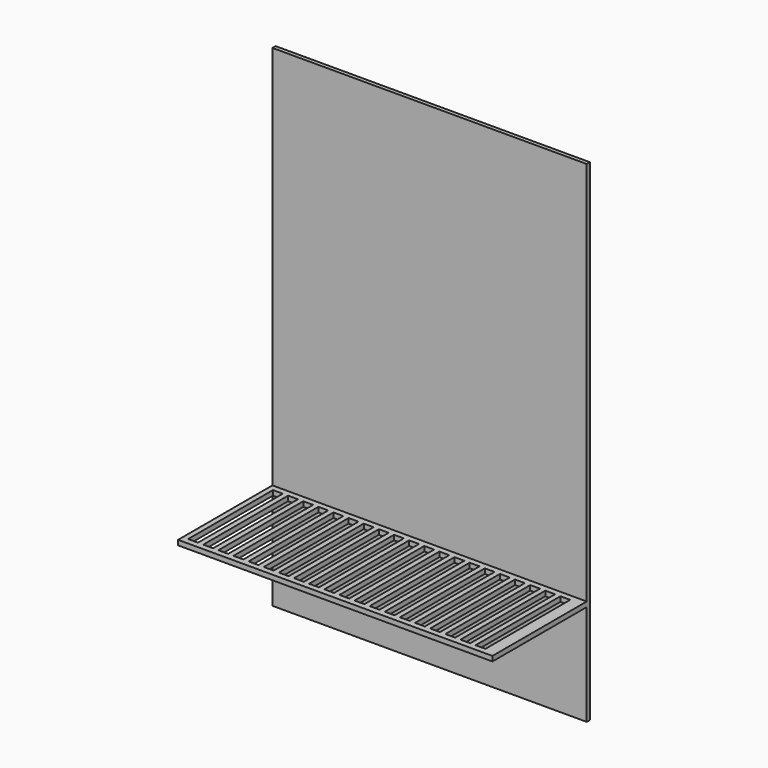
from build123d import *

# Parameters (mm, degrees)
F0_W     = 1600
F0_H     = 2500
F1_DEPTH = 20
F2_W     = 1600
F2_H     = 25
F3_DEPTH = 600
F4_W     = 50
F4_H     = 540
F5_DEPTH = 216


with BuildPart() as f1:
    # F0 (on Front) → F1 (new body)
    with BuildSketch(Plane.XZ):
        with Locations((-16.960647, 710.356686)):
            Rectangle(F0_W, F0_H)
    extrude(amount=F1_DEPTH)

    # F2 (on face) → F3 (join)
    with BuildSketch(Plane.XZ.offset(20)):
        with Locations((-16.960647, -12.5)):
            Rectangle(F2_W, F2_H)
    extrude(amount=F3_DEPTH)

    # F4 (on face) → F5 (cut)
    with BuildSketch(Plane.XY):
        with Locations((-533.960647, -320)):
            Rectangle(F4_W, F4_H)
        with Locations((-610.960647, -320)):
            Rectangle(F4_W, F4_H)
        with Locations((-687.960647, -320)):
            Rectangle(F4_W, F4_H)
        with Locations((-764.960647, -320)):
            Rectangle(F4_W, F4_H)
        with Locations((-456.960647, -320)):
            Rectangle(F4_W, F4_H)
        with Locations((-302.960647, -320)):
            Rectangle(F4_W, F4_H)
        with Locations((-379.960647, -320)):
            Rectangle(F4_W, F4_H)
        with Locations((698.039353, -320)):
            Rectangle(F4_W, F4_H)
        with Locations((621.039353, -320)):
            Rectangle(F4_W, F4_H)
        with Locations((544.039353, -320)):
            Rectangle(F4_W, F4_H)
        with Locations((467.039353, -320)):
            Rectangle(F4_W, F4_H)
        with Locations((390.039353, -320)):
            Rectangle(F4_W, F4_H)
        with Locations((313.039353, -320)):
            Rectangle(F4_W, F4_H)
        with Locations((236.039353, -320)):
            Rectangle(F4_W, F4_H)
        with Locations((159.039353, -320)):
            Rectangle(F4_W, F4_H)
        with Locations((82.039353, -320)):
            Rectangle(F4_W, F4_H)
        with Locations((5.039353, -320)):
            Rectangle(F4_W, F4_H)
        with Locations((-71.960647, -320)):
            Rectangle(F4_W, F4_H)
        with Locations((-148.960647, -320)):
            Rectangle(F4_W, F4_H)
        with Locations((-225.960647, -320)):
            Rectangle(F4_W, F4_H)
    extrude(amount=-F5_DEPTH, mode=Mode.SUBTRACT)


solid = f1.part
